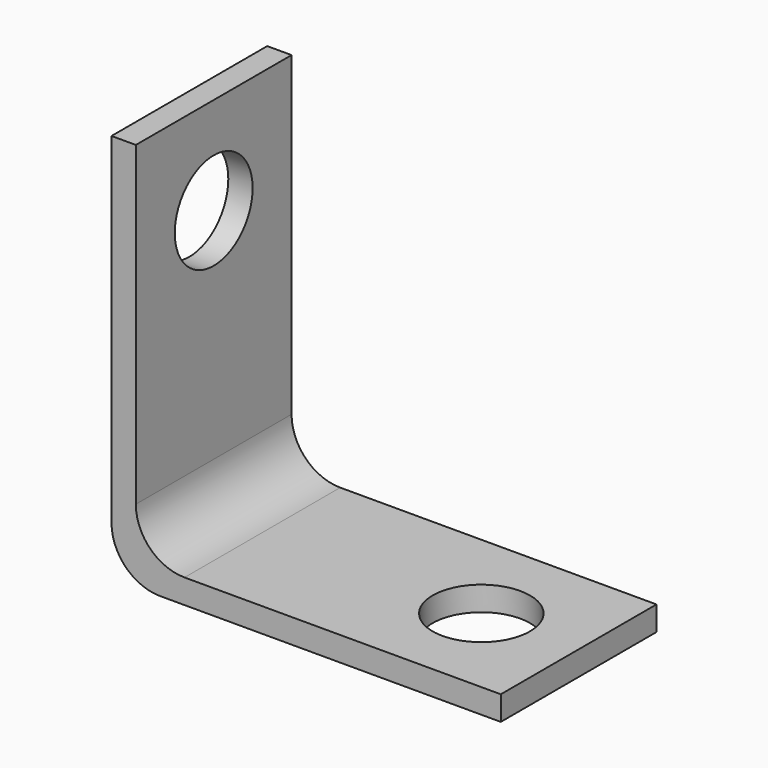
from build123d import *

# Parameters (mm, degrees)
F1_DEPTH      = 6.35
F1_DEPTH_BACK = 6.35
F3_R          = 3.175
F4_DEPTH      = 1.5885
F2_R          = 3.175
F5_DEPTH      = 1.5885


with BuildPart() as f1:
    # F0 (on Front) → F1 (new body, two sides)
    with BuildSketch(Plane.XZ) as f1_sk:
        with BuildLine():
            Line((0, 25.4), (0, 3.175))
            ThreePointArc((0, 3.175), (0.929936, 0.929936), (3.175, 0))
            Line((3.175, 0), (25.4, 0))
            Line((25.4, 0), (25.4, 1.5875))
            Line((25.4, 1.5875), (4.7625, 1.5875))
            ThreePointArc((4.7625, 1.5875), (2.517436, 2.517436), (1.5875, 4.7625))
            Line((1.5875, 4.7625), (1.5875, 25.4))
            Line((1.5875, 25.4), (0, 25.4))
        make_face()
    extrude(amount=F1_DEPTH)
    extrude(f1_sk.sketch, amount=-F1_DEPTH_BACK)

    # F3 (on face) → F4 (cut, through all)
    with BuildSketch(Plane.YZ.offset(1.5875)):
        with Locations((0, 19.05)):
            Circle(F3_R)
    extrude(amount=-F4_DEPTH, mode=Mode.SUBTRACT)

    # F2 (on face) → F5 (cut, through all)
    with BuildSketch(Plane.XY.offset(1.5875)):
        with Locations((19.05, 0)):
            Circle(F2_R)
    extrude(amount=-F5_DEPTH, mode=Mode.SUBTRACT)


solid = f1.part
